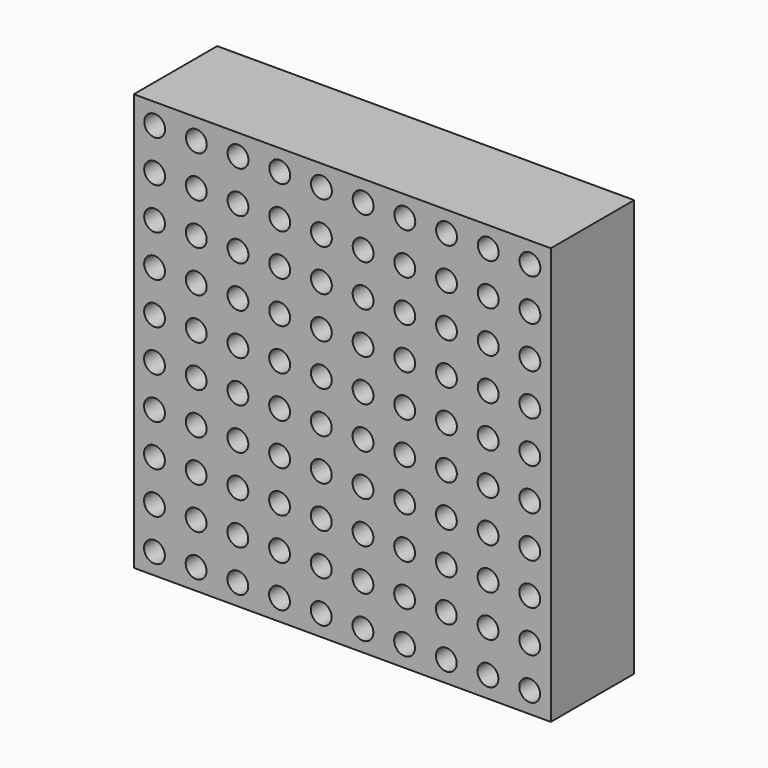
from build123d import *

# Parameters (mm, degrees)
F0_W     = 20
F0_H     = 20
F1_DEPTH = 5
F2_R     = 0.5
F3_DEPTH = 25


with BuildPart() as f1:
    # F0 (on Front) → F1 (new body)
    with BuildSketch(Plane.XZ):
        with Locations((-54.176535, -21.816024)):
            Rectangle(F0_W, F0_H)
    extrude(amount=F1_DEPTH)

    # F2 (on face) → F3 (cut)
    with BuildSketch(Plane.XZ.offset(5)):
        with Locations((-63.176535, -12.816024)):
            Circle(F2_R)
        with Locations((-61.176535, -12.816024)):
            Circle(F2_R)
        with Locations((-59.176535, -12.816024)):
            Circle(F2_R)
        with Locations((-57.176535, -12.816024)):
            Circle(F2_R)
        with Locations((-55.176535, -12.816024)):
            Circle(F2_R)
        with Locations((-53.176535, -12.816024)):
            Circle(F2_R)
        with Locations((-51.176535, -12.816024)):
            Circle(F2_R)
        with Locations((-49.176535, -12.816024)):
            Circle(F2_R)
        with Locations((-47.176535, -12.816024)):
            Circle(F2_R)
        with Locations((-45.176535, -12.816024)):
            Circle(F2_R)
        with Locations((-47.177874, -14.816024)):
            Circle(F2_R)
        with Locations((-45.177874, -14.816024)):
            Circle(F2_R)
        with Locations((-49.177874, -14.816024)):
            Circle(F2_R)
        with Locations((-51.177874, -14.816024)):
            Circle(F2_R)
        with Locations((-53.177874, -14.816024)):
            Circle(F2_R)
        with Locations((-55.177874, -14.816024)):
            Circle(F2_R)
        with Locations((-57.177874, -14.816024)):
            Circle(F2_R)
        with Locations((-59.177874, -14.816024)):
            Circle(F2_R)
        with Locations((-61.177874, -14.816024)):
            Circle(F2_R)
        with Locations((-63.177874, -14.816024)):
            Circle(F2_R)
        with Locations((-47.179213, -16.816023)):
            Circle(F2_R)
        with Locations((-45.179213, -16.816023)):
            Circle(F2_R)
        with Locations((-49.179213, -16.816023)):
            Circle(F2_R)
        with Locations((-51.179213, -16.816023)):
            Circle(F2_R)
        with Locations((-53.179213, -16.816023)):
            Circle(F2_R)
        with Locations((-55.179213, -16.816023)):
            Circle(F2_R)
        with Locations((-57.179213, -16.816023)):
            Circle(F2_R)
        with Locations((-59.179213, -16.816023)):
            Circle(F2_R)
        with Locations((-61.179213, -16.816023)):
            Circle(F2_R)
        with Locations((-63.179213, -16.816023)):
            Circle(F2_R)
        with Locations((-47.180551, -18.816023)):
            Circle(F2_R)
        with Locations((-45.180551, -18.816023)):
            Circle(F2_R)
        with Locations((-49.180551, -18.816023)):
            Circle(F2_R)
        with Locations((-51.180551, -18.816023)):
            Circle(F2_R)
        with Locations((-53.180551, -18.816023)):
            Circle(F2_R)
        with Locations((-55.180551, -18.816023)):
            Circle(F2_R)
        with Locations((-57.180551, -18.816023)):
            Circle(F2_R)
        with Locations((-59.180551, -18.816023)):
            Circle(F2_R)
        with Locations((-61.180551, -18.816023)):
            Circle(F2_R)
        with Locations((-63.180551, -18.816023)):
            Circle(F2_R)
        with Locations((-47.18189, -20.816023)):
            Circle(F2_R)
        with Locations((-45.18189, -20.816023)):
            Circle(F2_R)
        with Locations((-49.18189, -20.816023)):
            Circle(F2_R)
        with Locations((-51.18189, -20.816023)):
            Circle(F2_R)
        with Locations((-53.18189, -20.816023)):
            Circle(F2_R)
        with Locations((-55.18189, -20.816023)):
            Circle(F2_R)
        with Locations((-57.18189, -20.816023)):
            Circle(F2_R)
        with Locations((-59.18189, -20.816023)):
            Circle(F2_R)
        with Locations((-61.18189, -20.816023)):
            Circle(F2_R)
        with Locations((-63.18189, -20.816023)):
            Circle(F2_R)
        with Locations((-47.183229, -22.816022)):
            Circle(F2_R)
        with Locations((-45.183229, -22.816022)):
            Circle(F2_R)
        with Locations((-49.183229, -22.816022)):
            Circle(F2_R)
        with Locations((-51.183229, -22.816022)):
            Circle(F2_R)
        with Locations((-53.183229, -22.816022)):
            Circle(F2_R)
        with Locations((-55.183229, -22.816022)):
            Circle(F2_R)
        with Locations((-57.183229, -22.816022)):
            Circle(F2_R)
        with Locations((-59.183229, -22.816022)):
            Circle(F2_R)
        with Locations((-61.183229, -22.816022)):
            Circle(F2_R)
        with Locations((-63.183229, -22.816022)):
            Circle(F2_R)
        with Locations((-47.184568, -24.816022)):
            Circle(F2_R)
        with Locations((-45.184568, -24.816022)):
            Circle(F2_R)
        with Locations((-49.184568, -24.816022)):
            Circle(F2_R)
        with Locations((-51.184568, -24.816022)):
            Circle(F2_R)
        with Locations((-53.184568, -24.816022)):
            Circle(F2_R)
        with Locations((-55.184568, -24.816022)):
            Circle(F2_R)
        with Locations((-57.184568, -24.816022)):
            Circle(F2_R)
        with Locations((-59.184568, -24.816022)):
            Circle(F2_R)
        with Locations((-61.184568, -24.816022)):
            Circle(F2_R)
        with Locations((-63.184568, -24.816022)):
            Circle(F2_R)
        with Locations((-47.185907, -26.816021)):
            Circle(F2_R)
        with Locations((-45.185907, -26.816021)):
            Circle(F2_R)
        with Locations((-49.185907, -26.816021)):
            Circle(F2_R)
        with Locations((-51.185907, -26.816021)):
            Circle(F2_R)
        with Locations((-53.185907, -26.816021)):
            Circle(F2_R)
        with Locations((-55.185907, -26.816021)):
            Circle(F2_R)
        with Locations((-57.185907, -26.816021)):
            Circle(F2_R)
        with Locations((-59.185907, -26.816021)):
            Circle(F2_R)
        with Locations((-61.185907, -26.816021)):
            Circle(F2_R)
        with Locations((-63.185907, -26.816021)):
            Circle(F2_R)
        with Locations((-47.187246, -28.816021)):
            Circle(F2_R)
        with Locations((-45.187246, -28.816021)):
            Circle(F2_R)
        with Locations((-49.187246, -28.816021)):
            Circle(F2_R)
        with Locations((-51.187246, -28.816021)):
            Circle(F2_R)
        with Locations((-53.187246, -28.816021)):
            Circle(F2_R)
        with Locations((-55.187246, -28.816021)):
            Circle(F2_R)
        with Locations((-57.187246, -28.816021)):
            Circle(F2_R)
        with Locations((-59.187246, -28.816021)):
            Circle(F2_R)
        with Locations((-61.187246, -28.816021)):
            Circle(F2_R)
        with Locations((-63.187246, -28.816021)):
            Circle(F2_R)
        with Locations((-47.188585, -30.81602)):
            Circle(F2_R)
        with Locations((-45.188585, -30.81602)):
            Circle(F2_R)
        with Locations((-49.188585, -30.81602)):
            Circle(F2_R)
        with Locations((-51.188585, -30.81602)):
            Circle(F2_R)
        with Locations((-53.188585, -30.81602)):
            Circle(F2_R)
        with Locations((-55.188585, -30.81602)):
            Circle(F2_R)
        with Locations((-57.188585, -30.81602)):
            Circle(F2_R)
        with Locations((-59.188585, -30.81602)):
            Circle(F2_R)
        with Locations((-61.188585, -30.81602)):
            Circle(F2_R)
        with Locations((-63.188585, -30.81602)):
            Circle(F2_R)
    extrude(amount=-F3_DEPTH, mode=Mode.SUBTRACT)


solid = f1.part
